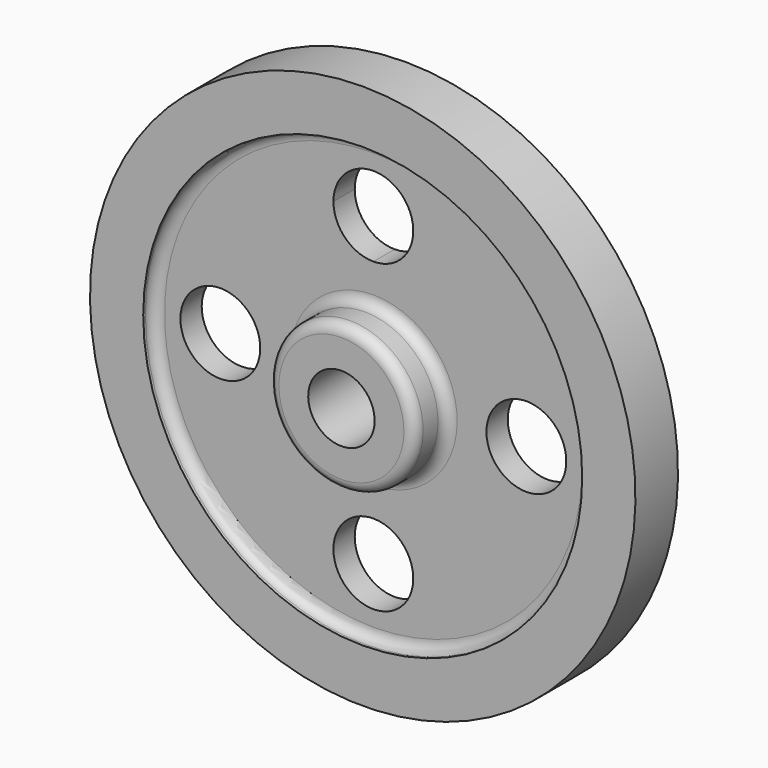
from build123d import *

# Parameters (mm, degrees)
F2_R     = 19.05
F3_DEPTH = 25.4
F4_R     = 5.08
F5_R     = 5.08
F6_R     = 5.08


with BuildPart() as f1:
    # F0 (on Right) → F1 (revolve)
    with BuildSketch(Plane.YZ):
        Polygon((-25.4, 34.902796), (-25.4, 15.852796), (0, 15.852796), (25.4, 15.852796), (25.4, 34.902796), (6.35, 34.902796), (6.35, 104.752796), (12.7, 104.752796), (12.7, 130.152796), (-12.7, 130.152796), (-12.7, 104.752796), (-6.35, 104.752796), (-6.35, 34.902796), align=None)
    revolve(axis=Axis((0, 11.529056, 0), (0, 1, 0)))

    # F2 (on face) → F3 (cut)
    with BuildSketch(Plane(origin=(0, 6.35, 0), x_dir=(-1, 0, 0), z_dir=(0, 1, 0))):
        with BuildLine():
            ThreePointArc((19.05, 73.025), (-13.470384, 86.495384), (0, 53.975))
            ThreePointArc((0, 53.975), (13.470384, 59.554616), (19.05, 73.025))
        make_face()
        with Locations((73.025, 0)):
            Circle(F2_R)
        with Locations((0, -73.025)):
            Circle(F2_R)
        with Locations((-73.025, 0)):
            Circle(F2_R)
    extrude(amount=-F3_DEPTH, mode=Mode.SUBTRACT)

    # F4
    f4_edges = [f1.edges().sort_by_distance(p)[0] for p in [
        (0, -25.4, -34.902796),
        (0, -6.35, -34.902796),
        (0, -15.875, 34.902796),
    ]]
    fillet(f4_edges, radius=F4_R)

    # F5
    f5_edges = [f1.edges().sort_by_distance(p)[0] for p in [
        (0, -6.35, -104.752796),
    ]]
    fillet(f5_edges, radius=F5_R)

    # F6
    f6_edges = [f1.edges().sort_by_distance(p)[0] for p in [
        (0, 25.4, -15.852796),
        (0, 25.4, -34.902796),
    ]]
    fillet(f6_edges, radius=F6_R)


solid = f1.part
